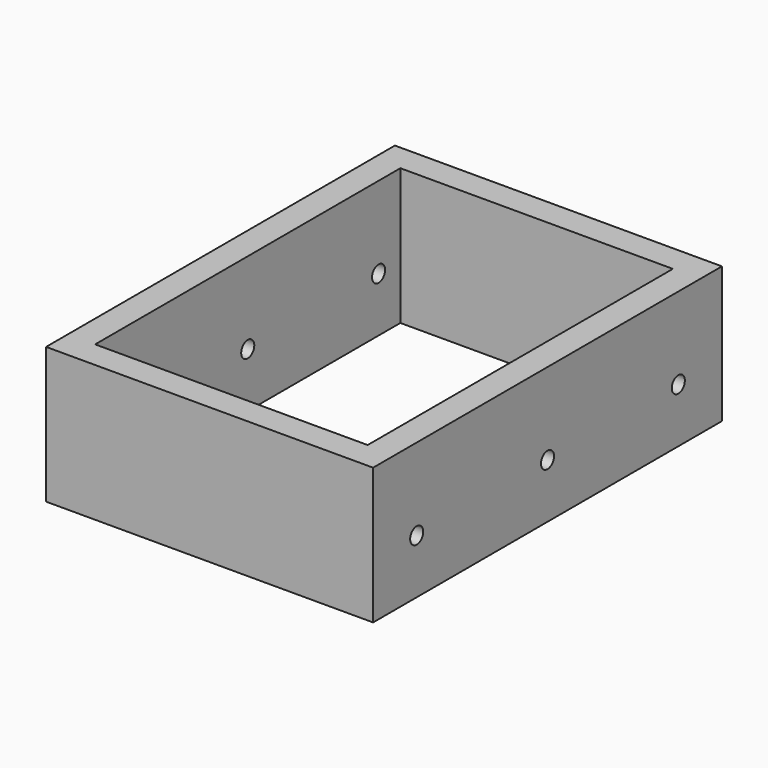
from build123d import *

# Parameters (mm, degrees)
F0_W     = 60
F0_H     = 80
F0_W_2   = 50
F0_H_2   = 70
F1_DEPTH = 25
F2_R     = 1.5
F3_DEPTH = 60.001


with BuildPart() as f1:
    # F0 (on Top) → F1 (new body)
    with BuildSketch(Plane.XY):
        Rectangle(F0_W, F0_H)
        Rectangle(F0_W_2, F0_H_2, mode=Mode.SUBTRACT)
    extrude(amount=F1_DEPTH)

    # F2 (on face) → F3 (cut, through all)
    with BuildSketch(Plane.YZ.offset(30)):
        with Locations((-30, 10)):
            Circle(F2_R)
        with Locations((0, 10)):
            Circle(F2_R)
        with Locations((30, 10)):
            Circle(F2_R)
    extrude(amount=-F3_DEPTH, mode=Mode.SUBTRACT)


solid = f1.part
